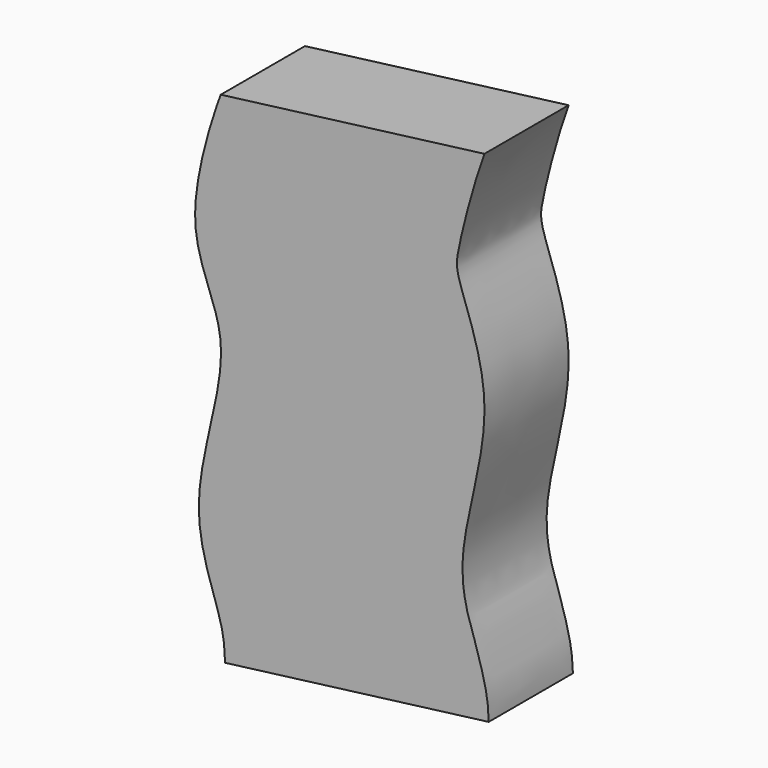
from build123d import *

# Parameters (mm, degrees)
F1_DEPTH = 25.4


with BuildPart() as f1:
    # F0 (on Front) → F1 (new body)
    with BuildSketch(Plane.XZ):
        with BuildLine():
            add(Edge.make_bspline(
                [(-27.656648308, -59.3014210463), (-27.7342028997, -57.0658314811), (-27.9420700188, -50.1674933239), (-38.798439003, -27.7070078167), (-22.9246426604, 9.6004594893), (-40.0383494993, 28.8486796031), (-29.8004046015, 58.022777477), (-29.6927499941, 58.3342568595), (-29.6862025611, 58.3545168706), (-29.6627927098, 58.4314814775), (-29.7354432462, 58.2229564073), (-28.6949761852, 61.0724150756)],
                knots=[0, 0, 0, 0, 0.109308435, 0.2950423698, 0.5263498046, 0.718575943, 0.9132083964, 0.9263513637, 0.9308982424, 0.9351993579, 1, 1, 1, 1], degree=3))
            Line((-27.656648308, -59.3014210463), (35.9734238148, -51.1731446168))
            add(Edge.make_bspline(
                [(35.9734238148, -51.1731446168), (35.9019100212, -49.1116871675), (35.757976088, -43.9520047014), (31.1397118599, -30.5915223182), (31.1304608357, -30.5639097753), (26.812798521, -16.9960501297), (39.9952327257, 15.2692014534), (27.8017739599, 40.7305108412), (28.5000966355, 47.1391578081), (32.2369646493, 61.8114969055), (34.9350959375, 69.2006915051)],
                knots=[0, 0, 0, 0, 0.100794301, 0.2277044109, 0.237500353, 0.352471012, 0.5657616991, 0.7430151678, 0.8319594665, 1, 1, 1, 1], degree=3))
            Line((34.9350959375, 69.2006915051), (-28.6949761853, 61.0724150756))
        make_face()
    extrude(amount=F1_DEPTH)


solid = f1.part
